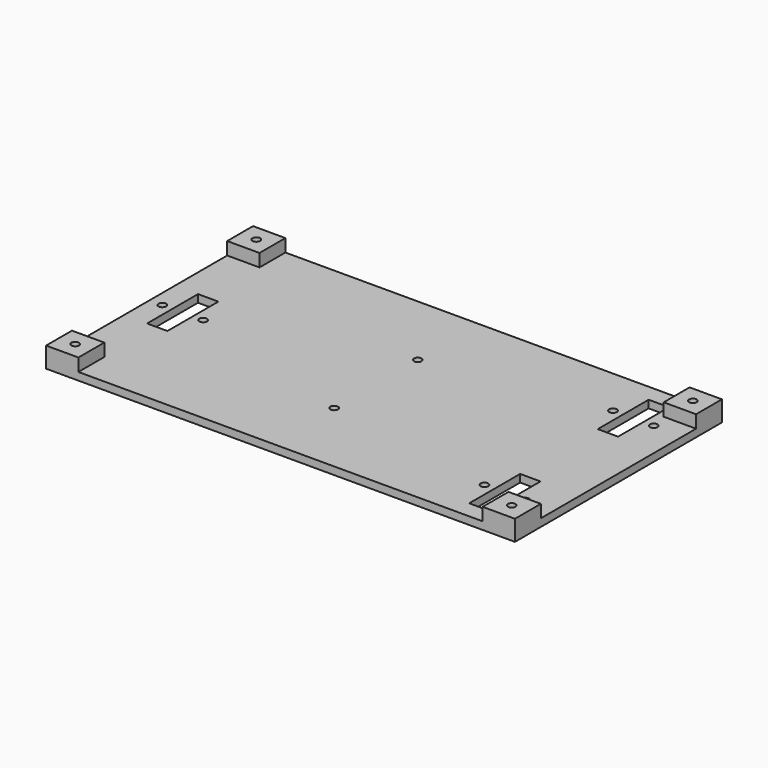
from build123d import *

# Parameters (mm, degrees)
F0_W     = 184.15
F0_H     = 101.6
F1_DEPTH = 3
F3_W     = 8
F3_H     = 25
F3_R     = 1.5
F2_R     = 1.5
F2_R_2   = 2.25
F4_DEPTH = 3.001
F5_W     = 12.7
F5_H     = 12.7
F6_DEPTH = 5
F7_R     = 1.5
F8_DEPTH = 8.001


with BuildPart() as f1:
    # F0 (on Top) → F1 (new body)
    with BuildSketch(Plane.XY):
        with Locations((3.175, 0)):
            Rectangle(F0_W, F0_H)
    extrude(amount=F1_DEPTH)

    # F3 (on face) + F2 (on Top) → F4 (cut, through all)
    with BuildSketch(Plane.XY.offset(3)):
        with Locations((75.875, 31.55)):
            Rectangle(F3_W, F3_H)
        with Locations((-75.875, 0)):
            Rectangle(F3_W, F3_H)
        with Locations((75.875, -31.55)):
            Rectangle(F3_W, F3_H)
        with Locations((-67.875, 0)):
            Circle(F3_R)
        with Locations((-83.875, 0)):
            Circle(F3_R)
        with Locations((83.875, 31.55)):
            Circle(F3_R)
        with Locations((67.875, 31.55)):
            Circle(F3_R)
        with Locations((83.875, -31.55)):
            Circle(F3_R)
        with Locations((67.875, -31.55)):
            Circle(F3_R)
        with Locations((0.03105, 20.5)):
            Circle(F3_R)
        with Locations((0, -20.5)):
            Circle(F3_R)
    with BuildSketch(Plane.XY):
        with BuildLine():
            Line((103.423341, 112.311256), (-105.576659, 112.311256))
            ThreePointArc((-105.576659, 112.311256), (-110.87996, 110.114557), (-113.076659, 104.811256))
            Line((-113.076659, 104.811256), (-113.076659, -104.188744))
            ThreePointArc((-113.076659, -104.188744), (-110.87996, -109.492044), (-105.576659, -111.688744))
            Line((-105.576659, -111.688744), (103.423341, -111.688744))
            ThreePointArc((103.423341, -111.688744), (108.726642, -109.492044), (110.923341, -104.188744))
            Line((110.923341, -104.188744), (110.923341, 104.811256))
            ThreePointArc((110.923341, 104.811256), (108.726642, 110.114557), (103.423341, 112.311256))
        make_face()
        with Locations((-105.576659, -104.188744)):
            Circle(F2_R, mode=Mode.SUBTRACT)
        with BuildLine():
            Line((-73.691883, -86.446103), (-28.691883, -41.446103))
            ThreePointArc((-28.691883, -41.446103), (-26.745343, -40.145466), (-24.449242, -39.688744))
            Line((-24.449242, -39.688744), (-12.076659, -39.688744))
            ThreePointArc((-12.076659, -39.688744), (-7.834019, -41.446103), (-6.076659, -45.688744))
            Line((-6.076659, -45.688744), (-6.076659, -90.688744))
            ThreePointArc((-6.076659, -90.688744), (-7.834019, -94.931384), (-12.076659, -96.688744))
            Line((-12.076659, -96.688744), (-69.449242, -96.688744))
            ThreePointArc((-69.449242, -96.688744), (-74.992519, -92.984844), (-73.691883, -86.446103))
        make_face(mode=Mode.SUBTRACT)
        with Locations((-98.576659, -39.688744)):
            Circle(F2_R_2, mode=Mode.SUBTRACT)
        with BuildLine():
            Line((-90.676659, -24.688744), (-86.476659, -24.688744))
            ThreePointArc((-86.476659, -24.688744), (-84.355339, -25.567423), (-83.476659, -27.688744))
            Line((-83.476659, -27.688744), (-83.476659, -51.688744))
            ThreePointArc((-83.476659, -51.688744), (-84.355339, -53.810064), (-86.476659, -54.688744))
            Line((-86.476659, -54.688744), (-90.676659, -54.688744))
            ThreePointArc((-90.676659, -54.688744), (-92.79798, -53.810064), (-93.676659, -51.688744))
            Line((-93.676659, -51.688744), (-93.676659, -27.688744))
            ThreePointArc((-93.676659, -27.688744), (-92.79798, -25.567423), (-90.676659, -24.688744))
        make_face(mode=Mode.SUBTRACT)
        with Locations((-78.576659, -39.688744)):
            Circle(F2_R_2, mode=Mode.SUBTRACT)
        with BuildLine():
            ThreePointArc((22.295924, -39.688744), (24.592024, -40.145466), (26.538564, -41.446103))
            Line((26.538564, -41.446103), (71.538564, -86.446103))
            ThreePointArc((71.538564, -86.446103), (72.839201, -92.984844), (67.295924, -96.688744))
            Line((67.295924, -96.688744), (9.923341, -96.688744))
            ThreePointArc((9.923341, -96.688744), (5.6807, -94.931384), (3.923341, -90.688744))
            Line((3.923341, -90.688744), (3.923341, -45.688744))
            ThreePointArc((3.923341, -45.688744), (5.6807, -41.446103), (9.923341, -39.688744))
            Line((9.923341, -39.688744), (22.295924, -39.688744))
        make_face(mode=Mode.SUBTRACT)
        with Locations((103.423341, -104.188744)):
            Circle(F2_R, mode=Mode.SUBTRACT)
        with Locations((-1.076659, -20.188744)):
            Circle(F2_R, mode=Mode.SUBTRACT)
        with BuildLine():
            ThreePointArc((95.923341, -68.061327), (92.219441, -73.604604), (85.6807, -72.303967))
            Line((85.6807, -72.303967), (49.165981, -35.789249))
            ThreePointArc((49.165981, -35.789249), (47.865345, -29.250507), (53.408622, -25.546608))
            Line((53.408622, -25.546608), (89.923341, -25.546608))
            ThreePointArc((89.923341, -25.546608), (94.165981, -27.303967), (95.923341, -31.546608))
            Line((95.923341, -31.546608), (95.923341, -68.061327))
        make_face(mode=Mode.SUBTRACT)
        with BuildLine():
            Line((84.323341, 15.311256), (88.523341, 15.311256))
            ThreePointArc((88.523341, 15.311256), (90.644661, 14.432577), (91.523341, 12.311256))
            Line((91.523341, 12.311256), (91.523341, -11.688744))
            ThreePointArc((91.523341, -11.688744), (90.644661, -13.810064), (88.523341, -14.688744))
            Line((88.523341, -14.688744), (84.323341, -14.688744))
            ThreePointArc((84.323341, -14.688744), (82.20202, -13.810064), (81.323341, -11.688744))
            Line((81.323341, -11.688744), (81.323341, 12.311256))
            ThreePointArc((81.323341, 12.311256), (82.20202, 14.432577), (84.323341, 15.311256))
        make_face(mode=Mode.SUBTRACT)
        with Locations((-98.576659, 40.311256)):
            Circle(F2_R_2, mode=Mode.SUBTRACT)
        with BuildLine():
            ThreePointArc((-83.476659, 28.311256), (-84.355339, 26.189936), (-86.476659, 25.311256))
            Line((-86.476659, 25.311256), (-90.676659, 25.311256))
            ThreePointArc((-90.676659, 25.311256), (-92.79798, 26.189936), (-93.676659, 28.311256))
            Line((-93.676659, 28.311256), (-93.676659, 52.311256))
            ThreePointArc((-93.676659, 52.311256), (-92.79798, 54.432577), (-90.676659, 55.311256))
            Line((-90.676659, 55.311256), (-86.476659, 55.311256))
            ThreePointArc((-86.476659, 55.311256), (-84.355339, 54.432577), (-83.476659, 52.311256))
            Line((-83.476659, 52.311256), (-83.476659, 28.311256))
        make_face(mode=Mode.SUBTRACT)
        with Locations((-78.576659, 40.311256)):
            Circle(F2_R_2, mode=Mode.SUBTRACT)
        with Locations((-105.576659, 104.811256)):
            Circle(F2_R, mode=Mode.SUBTRACT)
        with BuildLine():
            ThreePointArc((-12.076659, 97.311256), (-7.834019, 95.553897), (-6.076659, 91.311256))
            Line((-6.076659, 91.311256), (-6.076659, 46.311256))
            ThreePointArc((-6.076659, 46.311256), (-7.834019, 42.068616), (-12.076659, 40.311256))
            Line((-12.076659, 40.311256), (-24.449242, 40.311256))
            ThreePointArc((-24.449242, 40.311256), (-26.745343, 40.767979), (-28.691883, 42.068616))
            Line((-28.691883, 42.068616), (-73.691883, 87.068616))
            ThreePointArc((-73.691883, 87.068616), (-74.992519, 93.607357), (-69.449242, 97.311256))
            Line((-69.449242, 97.311256), (-12.076659, 97.311256))
        make_face(mode=Mode.SUBTRACT)
        with Locations((-1.076659, 20.811256)):
            Circle(F2_R, mode=Mode.SUBTRACT)
        with Locations((76.423341, 0.311256)):
            Circle(F2_R_2, mode=Mode.SUBTRACT)
        with Locations((96.423341, 0.311256)):
            Circle(F2_R_2, mode=Mode.SUBTRACT)
        with BuildLine():
            ThreePointArc((53.408622, 26.169121), (47.865345, 29.87302), (49.165981, 36.411762))
            Line((49.165981, 36.411762), (85.6807, 72.92648))
            ThreePointArc((85.6807, 72.92648), (92.219441, 74.227117), (95.923341, 68.683839))
            Line((95.923341, 68.683839), (95.923341, 32.169121))
            ThreePointArc((95.923341, 32.169121), (94.165981, 27.92648), (89.923341, 26.169121))
            Line((89.923341, 26.169121), (53.408622, 26.169121))
        make_face(mode=Mode.SUBTRACT)
        with BuildLine():
            Line((3.923341, 46.311256), (3.923341, 91.311256))
            ThreePointArc((3.923341, 91.311256), (5.6807, 95.553897), (9.923341, 97.311256))
            Line((9.923341, 97.311256), (67.295924, 97.311256))
            ThreePointArc((67.295924, 97.311256), (72.839201, 93.607357), (71.538564, 87.068616))
            Line((71.538564, 87.068616), (26.538564, 42.068616))
            ThreePointArc((26.538564, 42.068616), (24.592024, 40.767979), (22.295924, 40.311256))
            Line((22.295924, 40.311256), (9.923341, 40.311256))
            ThreePointArc((9.923341, 40.311256), (5.6807, 42.068616), (3.923341, 46.311256))
        make_face(mode=Mode.SUBTRACT)
        with Locations((103.423341, 104.811256)):
            Circle(F2_R, mode=Mode.SUBTRACT)
    extrude(amount=-F4_DEPTH, mode=Mode.SUBTRACT)

    # F5 (on face) → F6 (join)
    with BuildSketch(Plane.XY.offset(3)):
        with Locations((88.9, -44.45)):
            Rectangle(F5_W, F5_H)
        with Locations((-82.55, -44.45)):
            Rectangle(F5_W, F5_H)
        with Locations((-82.55, 44.45)):
            Rectangle(F5_W, F5_H)
        with Locations((88.9, 44.45)):
            Rectangle(F5_W, F5_H)
    extrude(amount=F6_DEPTH)

    # F7 (on face) → F8 (cut, through all)
    with BuildSketch(Plane.XY.offset(8)):
        with Locations((-82.55, 44.45)):
            Circle(F7_R)
        with Locations((88.9, 44.45)):
            Circle(F7_R)
        with Locations((88.9, -44.45)):
            Circle(F7_R)
        with Locations((-82.55, -44.45)):
            Circle(F7_R)
    extrude(amount=-F8_DEPTH, mode=Mode.SUBTRACT)


solid = f1.part
